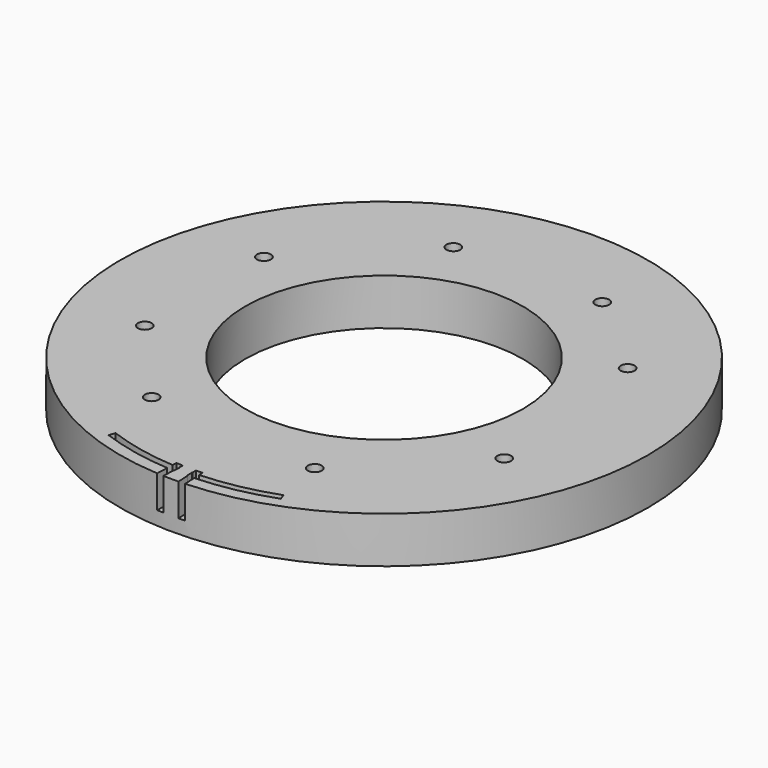
from build123d import *

# Parameters (mm, degrees)
CYLINDER689_R               = 52
CYLINDER689_DEPTH           = 7
BOX302_W                    = 1.4
BOX302_H                    = 60
BOX302_DEPTH                = 7
BOX302_PLACEMENT_ANGLE      = 2.7
BOX301_W                    = 1.4
BOX301_H                    = 60
BOX301_DEPTH                = 7
BOX301_PLACEMENT_ANGLE      = 2
CUT310_PLACEMENT_ANGLE      = 179.9
BOX306_W                    = 60
BOX306_H                    = 60
BOX306_DEPTH                = 7
BOX306_PLACEMENT_ANGLE      = 1
BOX305_W                    = 60
BOX305_H                    = 60
BOX305_DEPTH                = 7
BOX305_PLACEMENT_ANGLE      = 2
BOX304_W                    = 120
BOX304_H                    = 60
BOX304_DEPTH                = 7
TUBE074_R                   = 54.4
TUBE074_R_2                 = 53
TUBE074_DEPTH               = 7
BOX299_W                    = 60
BOX299_H                    = 60
BOX299_DEPTH                = 7
BOX299_PLACEMENT_ANGLE      = 20
BOX298_W                    = 60
BOX298_H                    = 60
BOX298_DEPTH                = 7
BOX298_PLACEMENT_ANGLE      = 20
BOX300_W                    = 120
BOX300_H                    = 60
BOX300_DEPTH                = 7
TUBE071_R                   = 54.4
TUBE071_R_2                 = 53
TUBE071_DEPTH               = 7
CUT314_PLACEMENT_ANGLE      = 180
CYLINDER484_R               = 1.5
CYLINDER484_DEPTH           = 100
CYLINDER486_R               = 1.5
CYLINDER486_DEPTH           = 100
CYLINDER486_ROLL_ANGLE      = -0.500355
CYLINDER486_PITCH_ANGLE     = 0.967193
CYLINDER486_PLACEMENT_ANGLE = 144.93646
CYLINDER489_R               = 1.5
CYLINDER489_DEPTH           = 100
CYLINDER490_R               = 1.5
CYLINDER490_DEPTH           = 100
CYLINDER490_PLACEMENT_ANGLE = 225
CYLINDER487_R               = 1.5
CYLINDER487_DEPTH           = 100
CYLINDER488_R               = 1.5
CYLINDER488_DEPTH           = 100
CYLINDER488_PLACEMENT_ANGLE = 45
CYLINDER491_R               = 1.5
CYLINDER491_DEPTH           = 100
CYLINDER491_ROLL_ANGLE      = 0.146073
CYLINDER491_PITCH_ANGLE     = 1.079101
CYLINDER491_PLACEMENT_ANGLE = -9.939308
CYLINDER485_R               = 1.5
CYLINDER485_DEPTH           = 100
CYLINDER485_PLACEMENT_ANGLE = 45
TUBE026_R                   = 57
TUBE026_R_2                 = 30
TUBE026_DEPTH               = 10


with BuildPart() as obj1:
    # Cylinder689 → Cylinder689 (new body)
    with BuildSketch(Plane.XY.offset(-22)):
        Circle(CYLINDER689_R)
    extrude(amount=CYLINDER689_DEPTH)


with BuildPart() as krychle302:
    # Box302 → Box302 (new body)
    with BuildSketch(Plane.XY):
        with Locations((0.7, 30)):
            Rectangle(BOX302_W, BOX302_H)
    extrude(amount=BOX302_DEPTH)


with BuildPart() as krychle302_1:
    # Box302 placement: moved
    add(krychle302.part.moved(Location((0, 0, -22))).rotate(Axis((0, 0, -22), (0, 0, 1)), BOX302_PLACEMENT_ANGLE))


with BuildPart() as cut310:
    # Box301 → Box301 (new body)
    with BuildSketch(Plane.XY):
        with Locations((0.7, 30)):
            Rectangle(BOX301_W, BOX301_H)
    extrude(amount=BOX301_DEPTH)


with BuildPart() as cut310_1:
    # Box301 placement: moved
    add(cut310.part.moved(Location((0, 0, -22))).rotate(Axis((0, 0, -22), (0, 0, -1)), BOX301_PLACEMENT_ANGLE))

    # Compound691: union Krychle302
    add(krychle302_1.part)

    # Cut310: cut obj1
    add(obj1.part, mode=Mode.SUBTRACT)


with BuildPart() as cut310_2:
    # Cut310 placement: moved
    add(cut310_1.part.moved(Location((0, 0, 67))).rotate(Axis((0, 0, 67), (0, 0, 1)), CUT310_PLACEMENT_ANGLE))


with BuildPart() as krychle306:
    # Box306 → Box306 (new body)
    with BuildSketch(Plane.XY):
        with Locations((30, 30)):
            Rectangle(BOX306_W, BOX306_H)
    extrude(amount=BOX306_DEPTH)


with BuildPart() as krychle306_1:
    # Box306 placement: moved
    add(krychle306.part.moved(Location((-59.990862, -1.047144, -22))).rotate(Axis((-59.990862, -1.047144, -22), (0, 0, 1)), BOX306_PLACEMENT_ANGLE))


with BuildPart() as compound694:
    # Box305 → Box305 (new body)
    with BuildSketch(Plane.XY):
        with Locations((30, 30)):
            Rectangle(BOX305_W, BOX305_H)
    extrude(amount=BOX305_DEPTH)


with BuildPart() as compound694_1:
    # Box305 placement: moved
    add(compound694.part.moved(Location((0, 0, -22))).rotate(Axis((0, 0, -22), (0, 0, -1)), BOX305_PLACEMENT_ANGLE))

    # Compound694: union Krychle306
    add(krychle306_1.part)


with BuildPart() as krychle304:
    # Box304 → Box304 (new body)
    with BuildSketch(Plane(origin=(-60, -60, -22), x_dir=(1, 0, 0), z_dir=(0, 0, 1))):
        with Locations((60, 30)):
            Rectangle(BOX304_W, BOX304_H)
    extrude(amount=BOX304_DEPTH)


with BuildPart() as cut313:
    # Tube074 → Tube074 (new body)
    with BuildSketch(Plane.XY.offset(-22)):
        Circle(TUBE074_R)
        Circle(TUBE074_R_2, mode=Mode.SUBTRACT)
    extrude(amount=TUBE074_DEPTH)

    # Cut312: cut Krychle304
    add(krychle304.part, mode=Mode.SUBTRACT)

    # Cut313: cut Compound694
    add(compound694_1.part, mode=Mode.SUBTRACT)


with BuildPart() as cut313_1:
    # Cut313 placement: moved
    add(cut313.part.moved(Location((0, 0, -7))))


with BuildPart() as krychle299:
    # Box299 → Box299 (new body)
    with BuildSketch(Plane.XY):
        with Locations((30, 30)):
            Rectangle(BOX299_W, BOX299_H)
    extrude(amount=BOX299_DEPTH)


with BuildPart() as krychle299_1:
    # Box299 placement: moved
    add(krychle299.part.moved(Location((-56.381557, -20.521209, -22))).rotate(Axis((-56.381557, -20.521209, -22), (0, 0, 1)), BOX299_PLACEMENT_ANGLE))


with BuildPart() as compound690:
    # Box298 → Box298 (new body)
    with BuildSketch(Plane.XY):
        with Locations((30, 30)):
            Rectangle(BOX298_W, BOX298_H)
    extrude(amount=BOX298_DEPTH)


with BuildPart() as compound690_1:
    # Box298 placement: moved
    add(compound690.part.moved(Location((0, 0, -22))).rotate(Axis((0, 0, -22), (0, 0, -1)), BOX298_PLACEMENT_ANGLE))

    # Compound690: union Krychle299
    add(krychle299_1.part)


with BuildPart() as krychle300:
    # Box300 → Box300 (new body)
    with BuildSketch(Plane(origin=(-60, -60, -22), x_dir=(1, 0, 0), z_dir=(0, 0, 1))):
        with Locations((60, 30)):
            Rectangle(BOX300_W, BOX300_H)
    extrude(amount=BOX300_DEPTH)


with BuildPart() as cut314:
    # Tube071 → Tube071 (new body)
    with BuildSketch(Plane.XY.offset(-22)):
        Circle(TUBE071_R)
        Circle(TUBE071_R_2, mode=Mode.SUBTRACT)
    extrude(amount=TUBE071_DEPTH)

    # Cut308: cut Krychle300
    add(krychle300.part, mode=Mode.SUBTRACT)

    # Cut309: cut Compound690
    add(compound690_1.part, mode=Mode.SUBTRACT)


with BuildPart() as cut314_1:
    # Cut309 placement: moved
    add(cut314.part.moved(Location((0, 0, -7))))

    # Cut314: cut Cut313
    add(cut313_1.part, mode=Mode.SUBTRACT)


with BuildPart() as cut314_2:
    # Cut314 placement: moved
    add(cut314_1.part.moved(Location((0, 0, 74))).rotate(Axis((0, 0, 74), (0, 0, 1)), CUT314_PLACEMENT_ANGLE))


with BuildPart() as obj2:
    # Cylinder484 → Cylinder484 (new body)
    with BuildSketch(Plane(origin=(38.80294, -16.072704, 0), x_dir=(0, 1, 0), z_dir=(0, 0, 1))):
        Circle(CYLINDER484_R)
    extrude(amount=CYLINDER484_DEPTH)


with BuildPart() as obj3:
    # Cylinder486 → Cylinder486 (new body)
    with BuildSketch(Plane.XY):
        Circle(CYLINDER486_R)
    extrude(amount=CYLINDER486_DEPTH)


with BuildPart() as obj3_1:
    # Cylinder486 roll: moved
    add(obj3.part.rotate(Axis((0, 0, 0), (1, 0, 0)), CYLINDER486_ROLL_ANGLE))


with BuildPart() as obj3_2:
    # Cylinder486 pitch: moved
    add(obj3_1.part.rotate(Axis((0, 0, 0), (0, 1, 0)), CYLINDER486_PITCH_ANGLE))


with BuildPart() as obj3_3:
    # Cylinder486 placement: moved
    add(obj3_2.part.moved(Location((35.440039, 22.530677, 0.610113))).rotate(Axis((35.440039, 22.530677, 0.610113), (0, 0, 1)), CYLINDER486_PLACEMENT_ANGLE))


with BuildPart() as obj4:
    # Cylinder489 → Cylinder489 (new body)
    with BuildSketch(Plane(origin=(16.072704, 38.80294, 0), x_dir=(-1, 0, 0), z_dir=(0, 0, 1))):
        Circle(CYLINDER489_R)
    extrude(amount=CYLINDER489_DEPTH)


with BuildPart() as obj5:
    # Cylinder490 → Cylinder490 (new body)
    with BuildSketch(Plane.XY):
        Circle(CYLINDER490_R)
    extrude(amount=CYLINDER490_DEPTH)


with BuildPart() as obj5_1:
    # Cylinder490 placement: moved
    add(obj5.part.moved(Location((-16.072704, 38.80294, 0))).rotate(Axis((-16.072704, 38.80294, 0), (0, 0, 1)), CYLINDER490_PLACEMENT_ANGLE))


with BuildPart() as obj6:
    # Cylinder487 → Cylinder487 (new body)
    with BuildSketch(Plane(origin=(-38.80294, 16.072704, 0), x_dir=(0, -1, 0), z_dir=(0, 0, 1))):
        Circle(CYLINDER487_R)
    extrude(amount=CYLINDER487_DEPTH)


with BuildPart() as obj7:
    # Cylinder488 → Cylinder488 (new body)
    with BuildSketch(Plane.XY):
        Circle(CYLINDER488_R)
    extrude(amount=CYLINDER488_DEPTH)


with BuildPart() as obj7_1:
    # Cylinder488 placement: moved
    add(obj7.part.moved(Location((-38.80294, -16.072704, 0))).rotate(Axis((-38.80294, -16.072704, 0), (0, 0, -1)), CYLINDER488_PLACEMENT_ANGLE))


with BuildPart() as obj8:
    # Cylinder491 → Cylinder491 (new body)
    with BuildSketch(Plane.XY):
        Circle(CYLINDER491_R)
    extrude(amount=CYLINDER491_DEPTH)


with BuildPart() as obj8_1:
    # Cylinder491 roll: moved
    add(obj8.part.rotate(Axis((0, 0, 0), (1, 0, 0)), CYLINDER491_ROLL_ANGLE))


with BuildPart() as obj8_2:
    # Cylinder491 pitch: moved
    add(obj8_1.part.rotate(Axis((0, 0, 0), (0, 1, 0)), CYLINDER491_PITCH_ANGLE))


with BuildPart() as obj8_3:
    # Cylinder491 placement: moved
    add(obj8_2.part.moved(Location((-22.528054, -35.446371, 0.203785))).rotate(Axis((-22.528054, -35.446371, 0.203785), (0, 0, 1)), CYLINDER491_PLACEMENT_ANGLE))


with BuildPart() as compound339:
    # Cylinder485 → Cylinder485 (new body)
    with BuildSketch(Plane.XY):
        Circle(CYLINDER485_R)
    extrude(amount=CYLINDER485_DEPTH)


with BuildPart() as compound339_1:
    # Cylinder485 placement: moved
    add(compound339.part.moved(Location((16.072704, -38.80294, 0))).rotate(Axis((16.072704, -38.80294, 0), (0, 0, 1)), CYLINDER485_PLACEMENT_ANGLE))

    # Compound339: union obj2, obj3, obj4, obj5, obj6, obj7, obj8
    add(obj2.part)
    add(obj3_3.part)
    add(obj4.part)
    add(obj5_1.part)
    add(obj6.part)
    add(obj7_1.part)
    add(obj8_3.part)


with BuildPart() as cut316:
    # Tube026 → Tube026 (new body)
    with BuildSketch(Plane.XY.offset(42)):
        Circle(TUBE026_R)
        Circle(TUBE026_R_2, mode=Mode.SUBTRACT)
    extrude(amount=TUBE026_DEPTH)

    # Cut175: cut Compound339
    add(compound339_1.part, mode=Mode.SUBTRACT)

    # Cut315: cut Cut314
    add(cut314_2.part, mode=Mode.SUBTRACT)

    # Cut316: cut Cut310
    add(cut310_2.part, mode=Mode.SUBTRACT)


solid = cut316.part
